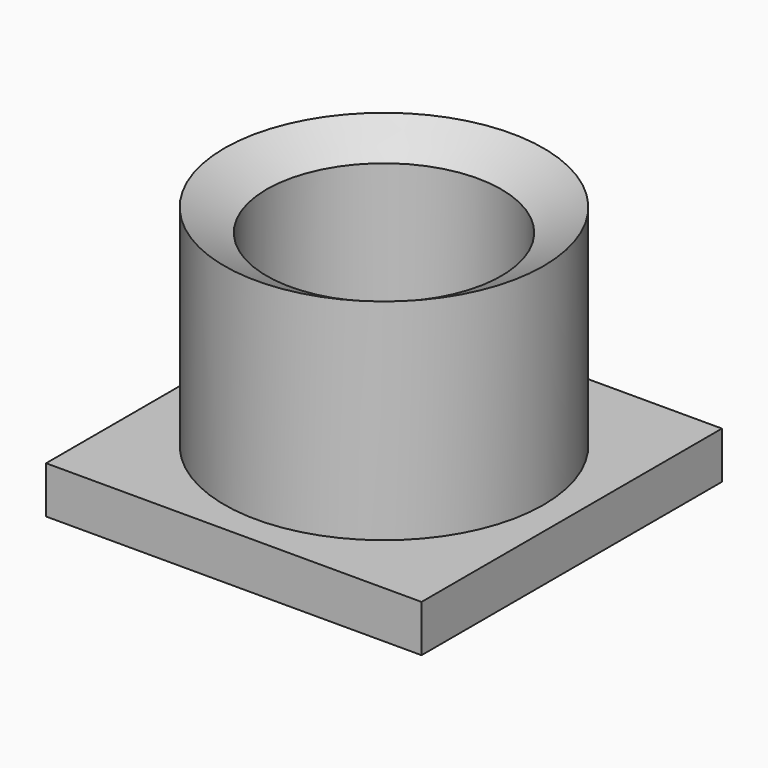
from build123d import *

# Parameters (mm, degrees)
F0_W     = 40
F0_H     = 40
F1_DEPTH = 5


with BuildPart() as f1:
    # F0 (on Top) → F1 (new body)
    with BuildSketch(Plane.XY):
        Rectangle(F0_W, F0_H)
    extrude(amount=F1_DEPTH)

    # F2 (on Front) → F3 (revolve)
    with BuildSketch(Plane.XZ):
        Polygon((-17, 27.392692), (-17, 5), (-12.5, 5), (-12.5, 25), align=None)
    revolve(axis=Axis((0, 0, 17.722977), (0, 0, -1)))


solid = f1.part
